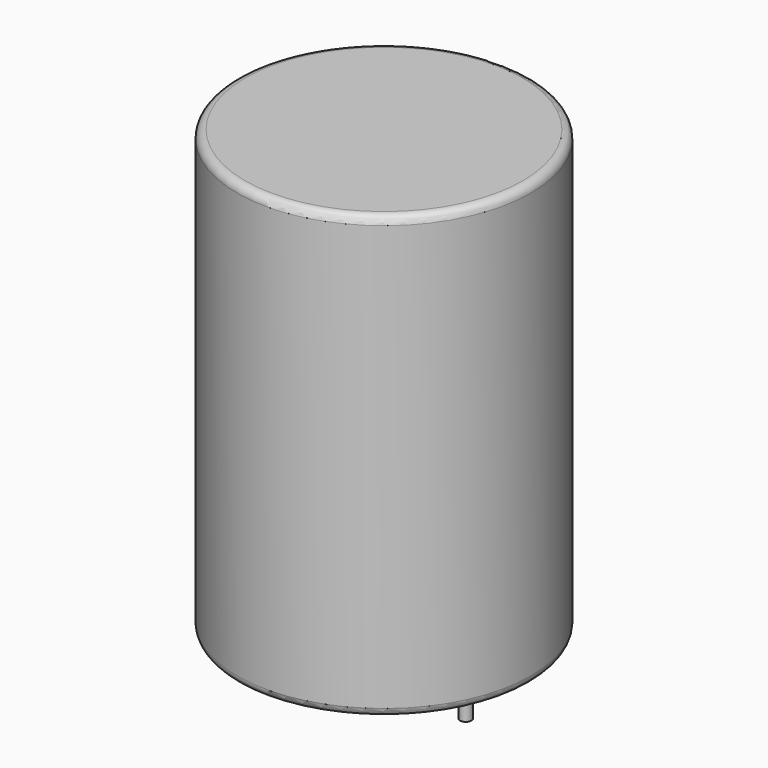
from build123d import *

# Parameters (mm, degrees)
SKETCH001_R       = 0.35
PAD001_DEPTH      = 13.5
PAD001_DEPTH_BACK = 3.5
SKETCH_R          = 9
PAD_DEPTH         = 27
FILLET_R          = 0.5


with BuildPart() as pad001:
    # Sketch001 → Pad001 (new body, two sides)
    with BuildSketch(Plane.XY.offset(0.5)) as pad001_sk:
        Circle(SKETCH001_R)
        with Locations((10, 0)):
            Circle(SKETCH001_R)
    extrude(amount=PAD001_DEPTH)
    extrude(pad001_sk.sketch, amount=-PAD001_DEPTH_BACK)


with BuildPart() as fillet_body:
    # Sketch → Pad (new body)
    with BuildSketch(Plane.XY.offset(0.1)):
        with Locations((5, 0)):
            Circle(SKETCH_R)
    extrude(amount=PAD_DEPTH)

    # Fillet
    fillet_edges = [fillet_body.edges().sort_by_distance(p)[0] for p in [
        (-4, 0, 0.1),
        (-4, 0, 27.1),
    ]]
    fillet(fillet_edges, radius=FILLET_R)


solid = Compound([pad001.part, fillet_body.part])
